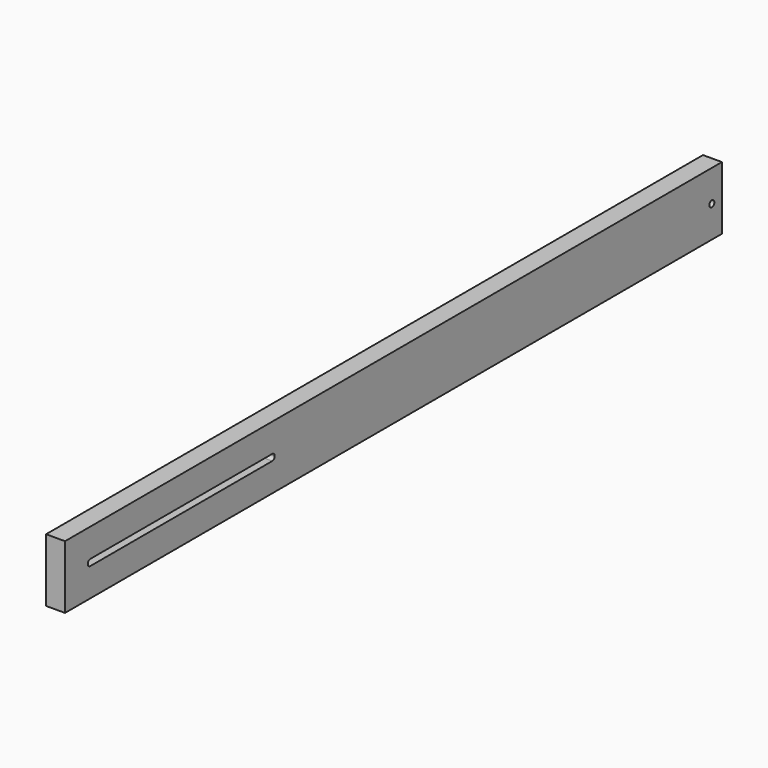
from build123d import *

# Parameters (mm, degrees)
F0_W     = 30
F0_H     = 100
F1_DEPTH = 1300
F2_R     = 5
F3_DEPTH = 30.001


with BuildPart() as f1:
    # F0 (on Front) → F1 (new body)
    with BuildSketch(Plane.XZ):
        Rectangle(F0_W, F0_H)
    extrude(amount=F1_DEPTH)

    # F2 (on face) → F3 (cut, through all)
    with BuildSketch(Plane.YZ.offset(15)):
        with Locations((-20, 0)):
            Circle(F2_R)
        with BuildLine():
            ThreePointArc((-1250, -5), (-1246.4644660941, -3.5355339059), (-1245, 0))
            ThreePointArc((-1245, 0), (-1246.4644660941, 3.5355339059), (-1250, 5))
            Line((-1250, 5), (-1250, -5))
        make_face()
        with BuildLine():
            ThreePointArc((-1250, 5), (-1246.4644660941, 3.5355339059), (-1245, 0))
            ThreePointArc((-1245, 0), (-1246.4644660941, -3.5355339059), (-1250, -5))
            Line((-1250, -5), (-890.03, -5))
            ThreePointArc((-890.03, -5), (-895.03, 0), (-890.03, 5))
            Line((-890.03, 5), (-1250, 5))
        make_face()
        with BuildLine():
            Line((-1250, -5), (-1250, 5))
            ThreePointArc((-1250, 5), (-1255, 0), (-1250, -5))
        make_face()
        with BuildLine():
            ThreePointArc((-885.03, 0), (-886.4944660941, 3.5355339059), (-890.03, 5))
            ThreePointArc((-890.03, 5), (-895.03, 0), (-890.03, -5))
            ThreePointArc((-890.03, -5), (-886.4944660941, -3.5355339059), (-885.03, 0))
        make_face()
    extrude(amount=-F3_DEPTH, mode=Mode.SUBTRACT)


solid = f1.part
